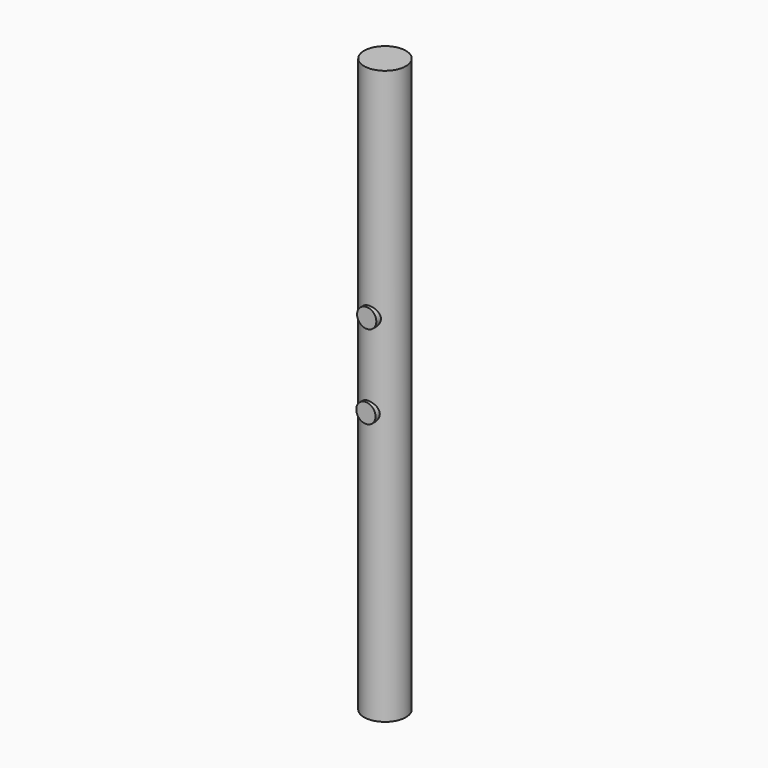
from build123d import *

# Parameters (mm, degrees)
F0_R     = 17.506555
F1_DEPTH = 480
F2_R     = 8.062213
F3_DEPTH = 20
F4_R     = 8.062213
F5_DEPTH = 20


with BuildPart() as f1:
    # F0 (on Top) → F1 (new body)
    with BuildSketch(Plane.XY):
        Circle(F0_R)
    extrude(amount=F1_DEPTH)

    # F2 (on Front) → F3 (join)
    with BuildSketch(Plane.XZ):
        with Locations((0, 226.747483)):
            Circle(F2_R)
    extrude(amount=F3_DEPTH)

    # F4 (on Front) → F5 (join)
    with BuildSketch(Plane.XZ):
        with Locations((0.667743, 297.020525)):
            Circle(F4_R)
    extrude(amount=F5_DEPTH)


solid = f1.part
